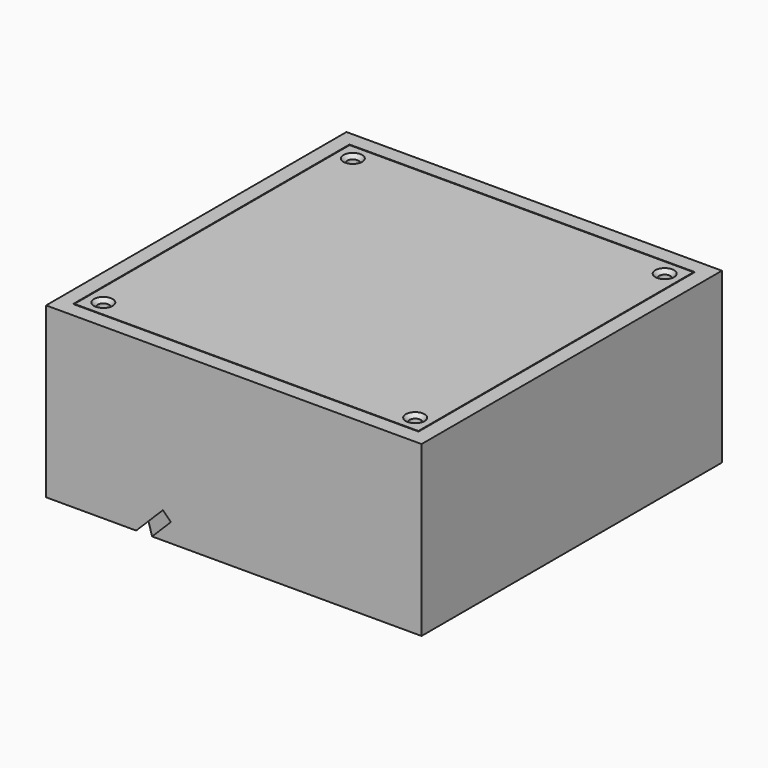
from build123d import *

# Parameters (mm, degrees)
F0_W      = 100
F0_H      = 100
F0_W_2    = 92
F0_H_2    = 92
F1_DEPTH  = 45
F2_DEPTH  = 41
F3_DEPTH  = 4
F7_R      = 2.5
F8_DEPTH  = 8
F9_W      = 91.6
F9_H      = 91.6
F9_R      = 2.5
F9_R_2    = 1.5
F10_DEPTH = 4
F11_SIZE  = 1


with BuildPart() as f1:
    # F0 (on Top) → F1 (new body)
    with BuildSketch(Plane.XY):
        Rectangle(F0_W, F0_H)
        Rectangle(F0_W_2, F0_H_2, mode=Mode.SUBTRACT)
    extrude(amount=F1_DEPTH)

    # F0 (on Top) → F2 (join)
    with BuildSketch(Plane.XY):
        Rectangle(F0_W_2, F0_H_2)
        with BuildLine():
            Line((-30.5147186258, 43), (30.5147186258, 43))
            ThreePointArc((30.5147186258, 43), (32.81081922, 42.5432771951), (34.7573593129, 41.2426406871))
            Line((34.7573593129, 41.2426406871), (41.2426406871, 34.7573593129))
            ThreePointArc((41.2426406871, 34.7573593129), (42.5432771951, 32.81081922), (43, 30.5147186258))
            Line((43, 30.5147186258), (43, -30.5147186258))
            ThreePointArc((43, -30.5147186258), (42.5432771951, -32.81081922), (41.2426406871, -34.7573593129))
            Line((41.2426406871, -34.7573593129), (34.7573593129, -41.2426406871))
            ThreePointArc((34.7573593129, -41.2426406871), (32.81081922, -42.5432771951), (30.5147186258, -43))
            Line((30.5147186258, -43), (-30.5147186258, -43))
            ThreePointArc((-30.5147186258, -43), (-32.81081922, -42.5432771951), (-34.7573593129, -41.2426406871))
            Line((-34.7573593129, -41.2426406871), (-41.2426406871, -34.7573593129))
            ThreePointArc((-41.2426406871, -34.7573593129), (-42.5432771951, -32.81081922), (-43, -30.5147186258))
            Line((-43, -30.5147186258), (-43, 30.5147186258))
            ThreePointArc((-43, 30.5147186258), (-42.5432771951, 32.81081922), (-41.2426406871, 34.7573593129))
            Line((-41.2426406871, 34.7573593129), (-34.7573593129, 41.2426406871))
            ThreePointArc((-34.7573593129, 41.2426406871), (-32.81081922, 42.5432771951), (-30.5147186258, 43))
        make_face(mode=Mode.SUBTRACT)
    extrude(amount=F2_DEPTH)

    # F0 (on Top) → F3 (join)
    with BuildSketch(Plane.XY):
        Rectangle(F0_W_2, F0_H_2)
        with BuildLine():
            Line((-30.5147186258, 43), (30.5147186258, 43))
            ThreePointArc((30.5147186258, 43), (32.81081922, 42.5432771951), (34.7573593129, 41.2426406871))
            Line((34.7573593129, 41.2426406871), (41.2426406871, 34.7573593129))
            ThreePointArc((41.2426406871, 34.7573593129), (42.5432771951, 32.81081922), (43, 30.5147186258))
            Line((43, 30.5147186258), (43, -30.5147186258))
            ThreePointArc((43, -30.5147186258), (42.5432771951, -32.81081922), (41.2426406871, -34.7573593129))
            Line((41.2426406871, -34.7573593129), (34.7573593129, -41.2426406871))
            ThreePointArc((34.7573593129, -41.2426406871), (32.81081922, -42.5432771951), (30.5147186258, -43))
            Line((30.5147186258, -43), (-30.5147186258, -43))
            ThreePointArc((-30.5147186258, -43), (-32.81081922, -42.5432771951), (-34.7573593129, -41.2426406871))
            Line((-34.7573593129, -41.2426406871), (-41.2426406871, -34.7573593129))
            ThreePointArc((-41.2426406871, -34.7573593129), (-42.5432771951, -32.81081922), (-43, -30.5147186258))
            Line((-43, -30.5147186258), (-43, 30.5147186258))
            ThreePointArc((-43, 30.5147186258), (-42.5432771951, 32.81081922), (-41.2426406871, 34.7573593129))
            Line((-41.2426406871, 34.7573593129), (-34.7573593129, 41.2426406871))
            ThreePointArc((-34.7573593129, 41.2426406871), (-32.81081922, 42.5432771951), (-30.5147186258, 43))
        make_face(mode=Mode.SUBTRACT)
        with BuildLine():
            ThreePointArc((34.7573593129, 41.2426406871), (32.81081922, 42.5432771951), (30.5147186258, 43))
            Line((30.5147186258, 43), (-30.5147186258, 43))
            ThreePointArc((-30.5147186258, 43), (-32.81081922, 42.5432771951), (-34.7573593129, 41.2426406871))
            Line((-34.7573593129, 41.2426406871), (-41.2426406871, 34.7573593129))
            ThreePointArc((-41.2426406871, 34.7573593129), (-42.5432771951, 32.81081922), (-43, 30.5147186258))
            Line((-43, 30.5147186258), (-43, -30.5147186258))
            ThreePointArc((-43, -30.5147186258), (-42.5432771951, -32.81081922), (-41.2426406871, -34.7573593129))
            Line((-41.2426406871, -34.7573593129), (-34.7573593129, -41.2426406871))
            ThreePointArc((-34.7573593129, -41.2426406871), (-32.81081922, -42.5432771951), (-30.5147186258, -43))
            Line((-30.5147186258, -43), (30.5147186258, -43))
            ThreePointArc((30.5147186258, -43), (32.81081922, -42.5432771951), (34.7573593129, -41.2426406871))
            Line((34.7573593129, -41.2426406871), (41.2426406871, -34.7573593129))
            ThreePointArc((41.2426406871, -34.7573593129), (42.5432771951, -32.81081922), (43, -30.5147186258))
            Line((43, -30.5147186258), (43, 30.5147186258))
            ThreePointArc((43, 30.5147186258), (42.5432771951, 32.81081922), (41.2426406871, 34.7573593129))
            Line((41.2426406871, 34.7573593129), (34.7573593129, 41.2426406871))
        make_face()
    extrude(amount=F3_DEPTH)

    # F6: sweep along a path in F4
    with BuildLine(Plane.XY) as f6_path:
        Line((-14.9084937871, -61.0915062129), (-57.837025553, -18.162974447))
    # F5 (on face) → F6 (sweep, cut)
    with BuildSketch(Plane(origin=(-50, 0, 0), x_dir=(0, -1, 0), z_dir=(-1, 0, 0))):
        Polygon((16.7576958239, 5), (21.7576958239, 0), (25.9994026273, 0), (18.8785492256, 7.1208534017), align=None)
    sweep(path=f6_path.line, mode=Mode.SUBTRACT)

    # F7 (on face) → F8 (cut)
    with BuildSketch(Plane.XY.offset(41)):
        with Locations((-41.5355339059, 41.5355339059)):
            Circle(F7_R)
        with Locations((41.5355339059, 41.5355339059)):
            Circle(F7_R)
        with Locations((41.5355339059, -41.5355339059)):
            Circle(F7_R)
        with Locations((-41.5355339059, -41.5355339059)):
            Circle(F7_R)
    extrude(amount=-F8_DEPTH, mode=Mode.SUBTRACT)


with BuildPart() as f10:
    # F9 (on face) → F10 (new body)
    with BuildSketch(Plane.XY.offset(41)):
        Rectangle(F9_W, F9_H)
        with Locations((-41.5355339059, -41.5355339059)):
            Circle(F9_R, mode=Mode.SUBTRACT)
        with Locations((41.5355339059, -41.5355339059)):
            Circle(F9_R, mode=Mode.SUBTRACT)
        with Locations((-41.5355339059, 41.5355339059)):
            Circle(F9_R, mode=Mode.SUBTRACT)
        with BuildLine():
            ThreePointArc((-34.7573593129, 41.2426406871), (-32.81081922, 42.5432771951), (-30.5147186258, 43))
            Line((-30.5147186258, 43), (30.5147186258, 43))
            ThreePointArc((30.5147186258, 43), (32.81081922, 42.5432771951), (34.7573593129, 41.2426406871))
            Line((34.7573593129, 41.2426406871), (41.2426406871, 34.7573593129))
            ThreePointArc((41.2426406871, 34.7573593129), (42.5432771951, 32.81081922), (43, 30.5147186258))
            Line((43, 30.5147186258), (43, -30.5147186258))
            ThreePointArc((43, -30.5147186258), (42.5432771951, -32.81081922), (41.2426406871, -34.7573593129))
            Line((41.2426406871, -34.7573593129), (34.7573593129, -41.2426406871))
            ThreePointArc((34.7573593129, -41.2426406871), (32.81081922, -42.5432771951), (30.5147186258, -43))
            Line((30.5147186258, -43), (-30.5147186258, -43))
            ThreePointArc((-30.5147186258, -43), (-32.81081922, -42.5432771951), (-34.7573593129, -41.2426406871))
            Line((-34.7573593129, -41.2426406871), (-41.2426406871, -34.7573593129))
            ThreePointArc((-41.2426406871, -34.7573593129), (-42.5432771951, -32.81081922), (-43, -30.5147186258))
            Line((-43, -30.5147186258), (-43, 30.5147186258))
            ThreePointArc((-43, 30.5147186258), (-42.5432771951, 32.81081922), (-41.2426406871, 34.7573593129))
            Line((-41.2426406871, 34.7573593129), (-34.7573593129, 41.2426406871))
        make_face(mode=Mode.SUBTRACT)
        with Locations((41.5355339059, 41.5355339059)):
            Circle(F9_R, mode=Mode.SUBTRACT)
        with BuildLine():
            Line((30.5147186258, 43), (-30.5147186258, 43))
            ThreePointArc((-30.5147186258, 43), (-32.81081922, 42.5432771951), (-34.7573593129, 41.2426406871))
            Line((-34.7573593129, 41.2426406871), (-41.2426406871, 34.7573593129))
            ThreePointArc((-41.2426406871, 34.7573593129), (-42.5432771951, 32.81081922), (-43, 30.5147186258))
            Line((-43, 30.5147186258), (-43, -30.5147186258))
            ThreePointArc((-43, -30.5147186258), (-42.5432771951, -32.81081922), (-41.2426406871, -34.7573593129))
            Line((-41.2426406871, -34.7573593129), (-34.7573593129, -41.2426406871))
            ThreePointArc((-34.7573593129, -41.2426406871), (-32.81081922, -42.5432771951), (-30.5147186258, -43))
            Line((-30.5147186258, -43), (30.5147186258, -43))
            ThreePointArc((30.5147186258, -43), (32.81081922, -42.5432771951), (34.7573593129, -41.2426406871))
            Line((34.7573593129, -41.2426406871), (41.2426406871, -34.7573593129))
            ThreePointArc((41.2426406871, -34.7573593129), (42.5432771951, -32.81081922), (43, -30.5147186258))
            Line((43, -30.5147186258), (43, 30.5147186258))
            ThreePointArc((43, 30.5147186258), (42.5432771951, 32.81081922), (41.2426406871, 34.7573593129))
            Line((41.2426406871, 34.7573593129), (34.7573593129, 41.2426406871))
            ThreePointArc((34.7573593129, 41.2426406871), (32.81081922, 42.5432771951), (30.5147186258, 43))
        make_face()
        with Locations((-41.5355339059, 41.5355339059)):
            Circle(F9_R)
        with Locations((-41.5355339059, 41.5355339059)):
            Circle(F9_R_2, mode=Mode.SUBTRACT)
        with Locations((-41.5355339059, -41.5355339059)):
            Circle(F9_R)
        with Locations((-41.5355339059, -41.5355339059)):
            Circle(F9_R_2, mode=Mode.SUBTRACT)
        with Locations((41.5355339059, -41.5355339059)):
            Circle(F9_R)
        with Locations((41.5355339059, -41.5355339059)):
            Circle(F9_R_2, mode=Mode.SUBTRACT)
        with Locations((41.5355339059, 41.5355339059)):
            Circle(F9_R)
        with Locations((41.5355339059, 41.5355339059)):
            Circle(F9_R_2, mode=Mode.SUBTRACT)
    extrude(amount=F10_DEPTH)

    # F11
    f11_edges = [f10.edges().sort_by_distance(p)[0] for p in [
        (-43.035534, 41.535534, 45),
        (40.035534, 41.535534, 45),
        (-43.035534, -41.535534, 45),
        (40.035534, -41.535534, 45),
    ]]
    chamfer(f11_edges, length=F11_SIZE)


solid = Compound([f1.part, f10.part])
